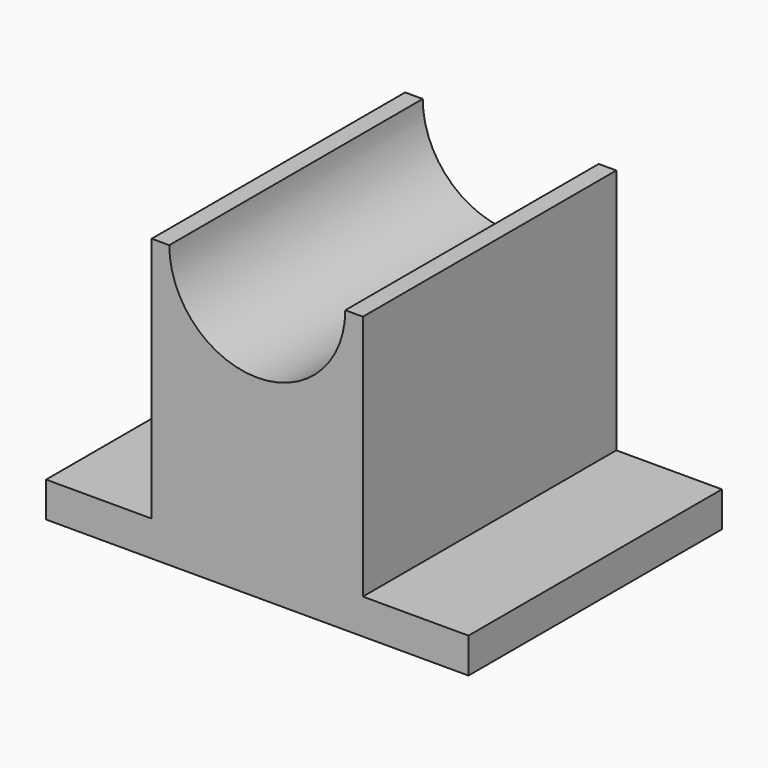
from build123d import *

# Parameters (mm, degrees)
F1_DEPTH = 114.3
F3_DEPTH = 114.3


with BuildPart() as f1:
    # F0 (on Front) → F1 (new body)
    with BuildSketch(Plane.XZ):
        Polygon((0, 12.7), (0, 0), (152.4, 0), (152.4, 12.7), (114.3, 12.7), (114.3, 101.6), (38.1, 101.6), (38.1, 12.7), align=None)
    extrude(amount=-F1_DEPTH)

    # F2 (on face) → F3 (cut)
    with BuildSketch(Plane.XZ):
        with BuildLine():
            Line((107.95, 101.6), (44.45, 101.6))
            ThreePointArc((44.45, 101.6), (76.2, 69.85), (107.95, 101.6))
        make_face()
    extrude(amount=-F3_DEPTH, mode=Mode.SUBTRACT)


solid = f1.part
